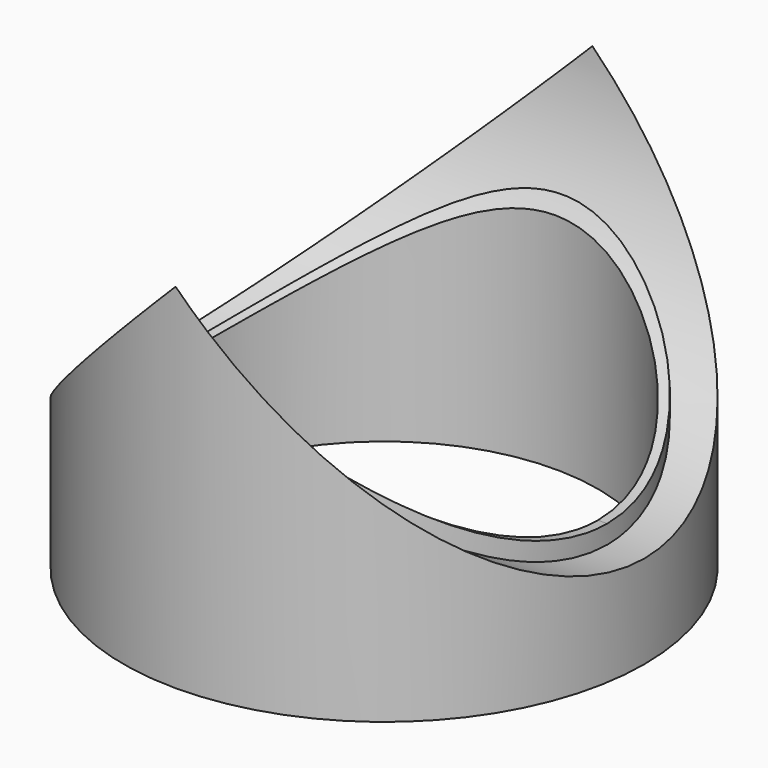
from build123d import *

# Parameters (mm, degrees)
CYLINDER015_R     = 28
CYLINDER015_DEPTH = 61
CYLINDER014_R     = 23
CYLINDER014_DEPTH = 38
CYLINDER013_R     = 28
CYLINDER013_DEPTH = 38
CYLINDER017_R     = 28
CYLINDER017_DEPTH = 61
CYLINDER016_R     = 23
CYLINDER016_DEPTH = 40
CYLINDER018_R     = 24
CYLINDER018_DEPTH = 40


with BuildPart() as cylinder015:
    # Cylinder015 → Cylinder015 (new body)
    with BuildSketch(Plane(origin=(-29, 0, 38), x_dir=(0, 0, -1), z_dir=(1, 0, 0))):
        Circle(CYLINDER015_R)
    extrude(amount=CYLINDER015_DEPTH)


with BuildPart() as cylinder014:
    # Cylinder014 → Cylinder014 (new body)
    with BuildSketch(Plane.XY):
        Circle(CYLINDER014_R)
    extrude(amount=CYLINDER014_DEPTH)


with BuildPart() as cut013:
    # Cylinder013 → Cylinder013 (new body)
    with BuildSketch(Plane.XY):
        Circle(CYLINDER013_R)
    extrude(amount=CYLINDER013_DEPTH)

    # Cut012: cut Cylinder014
    add(cylinder014.part, mode=Mode.SUBTRACT)

    # Cut013: cut Cylinder015
    add(cylinder015.part, mode=Mode.SUBTRACT)


with BuildPart() as cylinder017:
    # Cylinder017 → Cylinder017 (new body)
    with BuildSketch(Plane(origin=(-29, 0, 40), x_dir=(0, 0, -1), z_dir=(1, 0, 0))):
        Circle(CYLINDER017_R)
    extrude(amount=CYLINDER017_DEPTH)


with BuildPart() as cylinder016:
    # Cylinder016 → Cylinder016 (new body)
    with BuildSketch(Plane.XY):
        Circle(CYLINDER016_R)
    extrude(amount=CYLINDER016_DEPTH)


with BuildPart() as fusion002:
    # Cylinder018 → Cylinder018 (new body)
    with BuildSketch(Plane.XY):
        Circle(CYLINDER018_R)
    extrude(amount=CYLINDER018_DEPTH)

    # Cut014: cut Cylinder016
    add(cylinder016.part, mode=Mode.SUBTRACT)

    # Cut015: cut Cylinder017
    add(cylinder017.part, mode=Mode.SUBTRACT)

    # Fusion002: union Cut013
    add(cut013.part)


with BuildPart() as fusion002_1:
    # Fusion002 placement: moved
    add(fusion002.part.moved(Location((0, 0, 10))))


solid = fusion002_1.part
